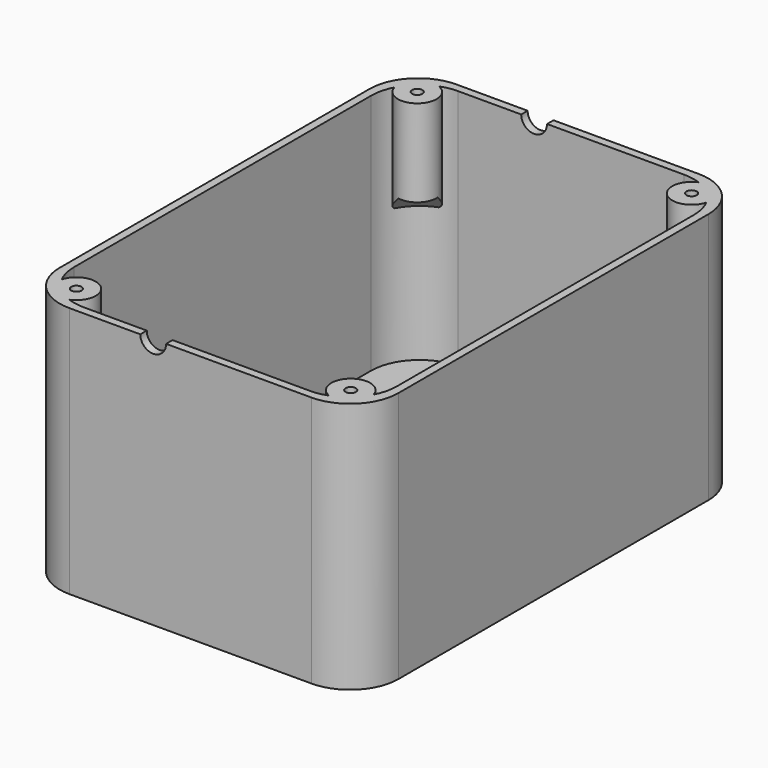
from build123d import *

# Parameters (mm, degrees)
CYLINDER029_R          = 12.5
CYLINDER029_DEPTH      = 10
ARRAY005_Y_COUNT       = 4
ARRAY005_Y_PITCH       = 36
CYLINDER028_R          = 14
CYLINDER028_DEPTH      = 3
ARRAY004_Y_COUNT       = 4
ARRAY004_Y_PITCH       = 36
CYLINDER027_R          = 4.8
CYLINDER027_DEPTH      = 10
CYLINDER026_W          = 4
CYLINDER026_H          = 157
CYLINDER026_ANGLE      = 180
CYLINDER026_ROLL_ANGLE = -90
CYLINDER023_R          = 1.5
CYLINDER023_DEPTH      = 10
CYLINDER024_R          = 1.5
CYLINDER024_DEPTH      = 10
CYLINDER018_R          = 1.5
CYLINDER018_DEPTH      = 10
CYLINDER020_R          = 1.5
CYLINDER020_DEPTH      = 10
CYLINDER021_R          = 1.5
CYLINDER021_DEPTH      = 10
CYLINDER025_R          = 1.5
CYLINDER025_DEPTH      = 10
CYLINDER019_R          = 1.5
CYLINDER019_DEPTH      = 10
CYLINDER022_R          = 1.5
CYLINDER022_DEPTH      = 10
CYLINDER017_R          = 1.5
CYLINDER017_DEPTH      = 10
CYLINDER008_R          = 1.6
CYLINDER008_DEPTH      = 28
CYLINDER010_R          = 1.6
CYLINDER010_DEPTH      = 27
CYLINDER009_R          = 1.6
CYLINDER009_DEPTH      = 28
CYLINDER011_R          = 1.6
CYLINDER011_DEPTH      = 29
CYLINDER005_R          = 6
CYLINDER005_DEPTH      = 27
CYLINDER007_R          = 6
CYLINDER007_DEPTH      = 27
CYLINDER004_R          = 6
CYLINDER004_DEPTH      = 27
CYLINDER003_R          = 6
CYLINDER003_DEPTH      = 27
CYLINDER002_R          = 2.3
CYLINDER002_DEPTH      = 3
ARRAY002_X_COUNT       = 2
ARRAY002_X_PITCH       = 31
ARRAY002_Y_COUNT       = 2
ARRAY002_Y_PITCH       = 75.2
CYLINDER001_R          = 1.3
CYLINDER001_DEPTH      = 5
ARRAY001_X_COUNT       = 2
ARRAY001_X_PITCH       = 31
ARRAY001_Y_COUNT       = 2
ARRAY001_Y_PITCH       = 75.2
BOX002_W               = 25
BOX002_H               = 71
BOX002_DEPTH           = 10
CYLINDER_R             = 14
CYLINDER_DEPTH         = 10
ARRAY_Y_COUNT          = 4
ARRAY_Y_PITCH          = 36
BOX001_W               = 100
BOX001_H               = 145
BOX001_DEPTH           = 75
BOX_W                  = 105
BOX_H                  = 150
BOX_DEPTH              = 78
FILLET_R               = 15
FILLET001_R            = 15
CHAMFER_SIZE           = 6.3
CHAMFER002_SIZE        = 6
CHAMFER003_SIZE        = 6
CHAMFER004_SIZE        = 6


with BuildPart() as botones003:
    # Cylinder029 → Cylinder029 (new body)
    with BuildSketch(Plane(origin=(80, 25, 0), x_dir=(1, 0, 0), z_dir=(0, 0, 1))):
        Circle(CYLINDER029_R)
    extrude(amount=CYLINDER029_DEPTH)

    # Array005 Y: Botones003 ×4


with BuildPart() as botones003_1:
    add(botones003.part)
    with Locations(*[(0, i * ARRAY005_Y_PITCH, 0) for i in range(1, ARRAY005_Y_COUNT)]):
        add(botones003.part)


with BuildPart() as botones003_2:
    # Array005 placement: moved
    add(botones003_1.part.moved(Location((0, -4, -2))))


with BuildPart() as botones002:
    # Cylinder028 → Cylinder028 (new body)
    with BuildSketch(Plane(origin=(80, 25, 0), x_dir=(1, 0, 0), z_dir=(0, 0, 1))):
        Circle(CYLINDER028_R)
    extrude(amount=CYLINDER028_DEPTH)

    # Array004 Y: Botones002 ×4


with BuildPart() as botones002_1:
    add(botones002.part)
    with Locations(*[(0, i * ARRAY004_Y_PITCH, 0) for i in range(1, ARRAY004_Y_COUNT)]):
        add(botones002.part)


with BuildPart() as botones002_2:
    # Array004 placement: moved
    add(botones002_1.part.moved(Location((0, -4, 0))))


with BuildPart() as cilindro027:
    # Cylinder027 → Cylinder027 (new body)
    with BuildSketch(Plane(origin=(33, 130, -5), x_dir=(1, 0, 0), z_dir=(0, 0, 1))):
        Circle(CYLINDER027_R)
    extrude(amount=CYLINDER027_DEPTH)


with BuildPart() as cilindro026:
    # Cylinder026 → Cylinder026 (revolve)
    with BuildSketch(Plane.XZ):
        with Locations((2, 78.5)):
            Rectangle(CYLINDER026_W, CYLINDER026_H)
    revolve(axis=Axis((0, 0, 0), (0, 0, 1)), revolution_arc=CYLINDER026_ANGLE)


with BuildPart() as cilindro026_1:
    # Cylinder026 roll: moved
    add(cilindro026.part.rotate(Axis((0, 0, 0), (1, 0, 0)), CYLINDER026_ROLL_ANGLE))


with BuildPart() as cilindro026_2:
    # Cylinder026 placement: moved
    add(cilindro026_1.part.moved(Location((41, -3, 78))))


with BuildPart() as cilindro023:
    # Cylinder023 → Cylinder023 (new body)
    with BuildSketch(Plane(origin=(39, 27, 0), x_dir=(1, 0, 0), z_dir=(0, 0, 1))):
        Circle(CYLINDER023_R)
    extrude(amount=CYLINDER023_DEPTH)


with BuildPart() as cilindro024:
    # Cylinder024 → Cylinder024 (new body)
    with BuildSketch(Plane(origin=(39, 19, 0), x_dir=(1, 0, 0), z_dir=(0, 0, 1))):
        Circle(CYLINDER024_R)
    extrude(amount=CYLINDER024_DEPTH)


with BuildPart() as cilindro018:
    # Cylinder018 → Cylinder018 (new body)
    with BuildSketch(Plane(origin=(24, 19, 0), x_dir=(1, 0, 0), z_dir=(0, 0, 1))):
        Circle(CYLINDER018_R)
    extrude(amount=CYLINDER018_DEPTH)


with BuildPart() as cilindro020:
    # Cylinder020 → Cylinder020 (new body)
    with BuildSketch(Plane(origin=(32, 27, 0), x_dir=(1, 0, 0), z_dir=(0, 0, 1))):
        Circle(CYLINDER020_R)
    extrude(amount=CYLINDER020_DEPTH)


with BuildPart() as cilindro021:
    # Cylinder021 → Cylinder021 (new body)
    with BuildSketch(Plane(origin=(32, 19, 0), x_dir=(1, 0, 0), z_dir=(0, 0, 1))):
        Circle(CYLINDER021_R)
    extrude(amount=CYLINDER021_DEPTH)


with BuildPart() as cilindro025:
    # Cylinder025 → Cylinder025 (new body)
    with BuildSketch(Plane(origin=(39, 11, 0), x_dir=(1, 0, 0), z_dir=(0, 0, 1))):
        Circle(CYLINDER025_R)
    extrude(amount=CYLINDER025_DEPTH)


with BuildPart() as cilindro019:
    # Cylinder019 → Cylinder019 (new body)
    with BuildSketch(Plane(origin=(24, 11, 0), x_dir=(1, 0, 0), z_dir=(0, 0, 1))):
        Circle(CYLINDER019_R)
    extrude(amount=CYLINDER019_DEPTH)


with BuildPart() as cilindro022:
    # Cylinder022 → Cylinder022 (new body)
    with BuildSketch(Plane(origin=(32, 11, 0), x_dir=(1, 0, 0), z_dir=(0, 0, 1))):
        Circle(CYLINDER022_R)
    extrude(amount=CYLINDER022_DEPTH)


with BuildPart() as obj1:
    # Cylinder017 → Cylinder017 (new body)
    with BuildSketch(Plane(origin=(24, 27, 0), x_dir=(1, 0, 0), z_dir=(0, 0, 1))):
        Circle(CYLINDER017_R)
    extrude(amount=CYLINDER017_DEPTH)

    # Fusion007: union Cilindro023, Cilindro024, Cilindro018, Cilindro020, Cilindro021, Cilindro025, Cilindro019, Cilindro022
    add(cilindro023.part)
    add(cilindro024.part)
    add(cilindro018.part)
    add(cilindro020.part)
    add(cilindro021.part)
    add(cilindro025.part)
    add(cilindro019.part)
    add(cilindro022.part)


with BuildPart() as cilindro008:
    # Cylinder008 → Cylinder008 (new body)
    with BuildSketch(Plane(origin=(10, 141, 51), x_dir=(1, 0, 0), z_dir=(0, 0, 1))):
        Circle(CYLINDER008_R)
    extrude(amount=CYLINDER008_DEPTH)


with BuildPart() as cilindro010:
    # Cylinder010 → Cylinder010 (new body)
    with BuildSketch(Plane(origin=(95, 141, 51), x_dir=(1, 0, 0), z_dir=(0, 0, 1))):
        Circle(CYLINDER010_R)
    extrude(amount=CYLINDER010_DEPTH)


with BuildPart() as cilindro009:
    # Cylinder009 → Cylinder009 (new body)
    with BuildSketch(Plane(origin=(95, 9, 51), x_dir=(1, 0, 0), z_dir=(0, 0, 1))):
        Circle(CYLINDER009_R)
    extrude(amount=CYLINDER009_DEPTH)


with BuildPart() as fusion005:
    # Cylinder011 → Cylinder011 (new body)
    with BuildSketch(Plane(origin=(10, 9, 51), x_dir=(1, 0, 0), z_dir=(0, 0, 1))):
        Circle(CYLINDER011_R)
    extrude(amount=CYLINDER011_DEPTH)

    # Fusion005: union Cilindro008, Cilindro010, Cilindro009
    add(cilindro008.part)
    add(cilindro010.part)
    add(cilindro009.part)


with BuildPart() as fusion005_1:
    # Fusion005 placement: moved
    add(fusion005.part.moved(Location((0, 0, 2))))


with BuildPart() as cilindro005:
    # Cylinder005 → Cylinder005 (new body)
    with BuildSketch(Plane(origin=(95, 141, 51), x_dir=(1, 0, 0), z_dir=(0, 0, 1))):
        Circle(CYLINDER005_R)
    extrude(amount=CYLINDER005_DEPTH)


with BuildPart() as cilindro007:
    # Cylinder007 → Cylinder007 (new body)
    with BuildSketch(Plane(origin=(10, 141, 51), x_dir=(1, 0, 0), z_dir=(0, 0, 1))):
        Circle(CYLINDER007_R)
    extrude(amount=CYLINDER007_DEPTH)


with BuildPart() as fusion003:
    # Cylinder004 → Cylinder004 (new body)
    with BuildSketch(Plane(origin=(95, 9, 51), x_dir=(1, 0, 0), z_dir=(0, 0, 1))):
        Circle(CYLINDER004_R)
    extrude(amount=CYLINDER004_DEPTH)

    # Fusion003: union Cilindro005, Cilindro007
    add(cilindro005.part)
    add(cilindro007.part)


with BuildPart() as cilindro003:
    # Cylinder003 → Cylinder003 (new body)
    with BuildSketch(Plane(origin=(10, 9, 51), x_dir=(1, 0, 0), z_dir=(0, 0, 1))):
        Circle(CYLINDER003_R)
    extrude(amount=CYLINDER003_DEPTH)


with BuildPart() as array002:
    # Cylinder002 → Cylinder002 (new body)
    with BuildSketch(Plane(origin=(18, 37.5, 3), x_dir=(1, 0, 0), z_dir=(0, 0, 1))):
        Circle(CYLINDER002_R)
    extrude(amount=CYLINDER002_DEPTH)

    # Array002 X: Array002 ×2


with BuildPart() as array002_1:
    add(array002.part)
    with Locations(*[(i * ARRAY002_X_PITCH, 0, 0) for i in range(1, ARRAY002_X_COUNT)]):
        add(array002.part)

    # Array002 Y: Array002 ×2


with BuildPart() as array002_2:
    add(array002_1.part)
    with Locations(*[(0, i * ARRAY002_Y_PITCH, 0) for i in range(1, ARRAY002_Y_COUNT)]):
        add(array002_1.part)


with BuildPart() as fusion:
    # Cylinder001 → Cylinder001 (new body)
    with BuildSketch(Plane(origin=(18, 37.5, 3), x_dir=(1, 0, 0), z_dir=(0, 0, 1))):
        Circle(CYLINDER001_R)
    extrude(amount=CYLINDER001_DEPTH)

    # Array001 X: Fusion ×2


with BuildPart() as fusion_1:
    add(fusion.part)
    with Locations(*[(i * ARRAY001_X_PITCH, 0, 0) for i in range(1, ARRAY001_X_COUNT)]):
        add(fusion.part)

    # Array001 Y: Fusion ×2


with BuildPart() as fusion_2:
    add(fusion_1.part)
    with Locations(*[(0, i * ARRAY001_Y_PITCH, 0) for i in range(1, ARRAY001_Y_COUNT)]):
        add(fusion_1.part)

    # Fusion: union Array002
    add(array002_2.part)


with BuildPart() as cubo002:
    # Box002 → Box002 (new body)
    with BuildSketch(Plane(origin=(20.5, 39.5, -1), x_dir=(1, 0, 0), z_dir=(0, 0, 1))):
        with Locations((12.5, 35.5)):
            Rectangle(BOX002_W, BOX002_H)
    extrude(amount=BOX002_DEPTH)


with BuildPart() as botones:
    # Cylinder → Cylinder (new body)
    with BuildSketch(Plane(origin=(80, 25, 0), x_dir=(1, 0, 0), z_dir=(0, 0, 1))):
        Circle(CYLINDER_R)
    extrude(amount=CYLINDER_DEPTH)

    # Array Y: Botones ×4


with BuildPart() as botones_1:
    add(botones.part)
    with Locations(*[(0, i * ARRAY_Y_PITCH, 0) for i in range(1, ARRAY_Y_COUNT)]):
        add(botones.part)


with BuildPart() as botones_2:
    # Array placement: moved
    add(botones_1.part.moved(Location((0, -4, -2))))


with BuildPart() as cubo001:
    # Box001 → Box001 (new body)
    with BuildSketch(Plane(origin=(2.5, 2.5, 3), x_dir=(1, 0, 0), z_dir=(0, 0, 1))):
        with Locations((50, 72.5)):
            Rectangle(BOX001_W, BOX001_H)
    extrude(amount=BOX001_DEPTH)


with BuildPart() as cut012:
    # Box → Box (new body)
    with BuildSketch(Plane.XY):
        with Locations((52.5, 75)):
            Rectangle(BOX_W, BOX_H)
    extrude(amount=BOX_DEPTH)

    # Cut: cut Cubo001
    add(cubo001.part, mode=Mode.SUBTRACT)

    # Cut001: cut Botones
    add(botones_2.part, mode=Mode.SUBTRACT)

    # Cut002: cut Cubo002
    add(cubo002.part, mode=Mode.SUBTRACT)

    # Fillet
    fillet_edges = [cut012.edges().sort_by_distance(p)[0] for p in [
        (2.5, 2.5, 40.5),
        (2.5, 147.5, 40.5),
        (102.5, 2.5, 40.5),
        (102.5, 147.5, 40.5),
    ]]
    fillet(fillet_edges, radius=FILLET_R)

    # Fillet001
    fillet001_edges = [cut012.edges().sort_by_distance(p)[0] for p in [
        (0, 0, 39),
        (0, 150, 39),
        (105, 150, 39),
        (105, 0, 39),
    ]]
    fillet(fillet001_edges, radius=FILLET001_R)

    # Fusion001: union Fusion
    add(fusion_2.part)

    # Fusion002: union Cilindro003
    add(cilindro003.part)

    # Chamfer
    chamfer_edges = [cut012.edges().sort_by_distance(p)[0] for p in [
        (7.575675, 6.252432, 51),
    ]]
    chamfer(chamfer_edges, length=CHAMFER_SIZE)

    # Fusion004: union Fusion003
    add(fusion003.part)

    # Chamfer002
    chamfer002_edges = [cut012.edges().sort_by_distance(p)[0] for p in [
        (7.575675, 143.747568, 51),
    ]]
    chamfer(chamfer002_edges, length=CHAMFER002_SIZE)

    # Chamfer003
    chamfer003_edges = [cut012.edges().sort_by_distance(p)[0] for p in [
        (97.424325, 143.747568, 51),
    ]]
    chamfer(chamfer003_edges, length=CHAMFER003_SIZE)

    # Chamfer004
    chamfer004_edges = [cut012.edges().sort_by_distance(p)[0] for p in [
        (97.424325, 6.252432, 51),
    ]]
    chamfer(chamfer004_edges, length=CHAMFER004_SIZE)

    # Cut003: cut Fusion005
    add(fusion005_1.part, mode=Mode.SUBTRACT)

    # Cut009: cut obj1
    add(obj1.part, mode=Mode.SUBTRACT)

    # Cut010: cut Cilindro026
    add(cilindro026_2.part, mode=Mode.SUBTRACT)

    # Cut011: cut Cilindro027
    add(cilindro027.part, mode=Mode.SUBTRACT)

    # Fusion011: union Botones002
    add(botones002_2.part)

    # Cut012: cut Botones003
    add(botones003_2.part, mode=Mode.SUBTRACT)


solid = cut012.part
